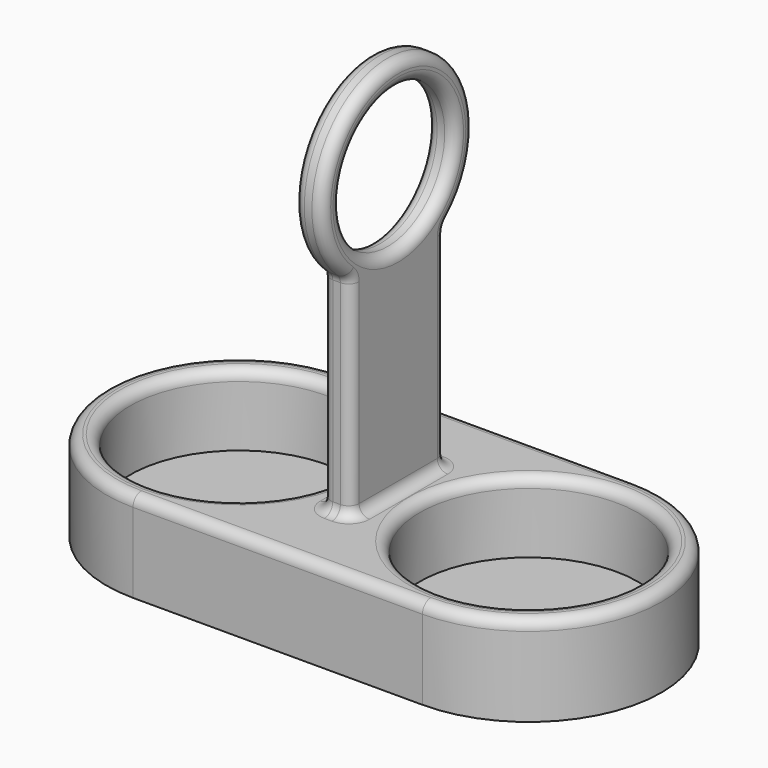
from build123d import *

# Parameters (mm, degrees)
PAD_DEPTH    = 4
SKETCH001_R  = 23
PAD001_DEPTH = 15
SKETCH002_W  = 6
SKETCH002_H  = 25
PAD002_DEPTH = 60
SKETCH003_R  = 20
PAD003_DEPTH = 6
SKETCH004_R  = 15
POCKET_DEPTH = 6
FILLET_R     = 2.2


with BuildPart() as part:
    # Sketch → Pad (new body)
    with BuildSketch(Plane.XY):
        with BuildLine():
            Line((0, 28), (61, 28))
            ThreePointArc((61, -28), (89, 0), (61, 28))
            Line((0, -28), (61, -28))
            ThreePointArc((0, 28), (-28, 0), (0, -28))
        make_face()
    extrude(amount=PAD_DEPTH)

    # Sketch001 → Pad001 (new body)
    with BuildSketch(Plane.XY.offset(4)):
        with BuildLine():
            Line((0, 28), (61, 28))
            ThreePointArc((61, -28), (89, 0), (61, 28))
            Line((0, -28), (61, -28))
            ThreePointArc((0, 28), (-28, 0), (0, -28))
        make_face()
        Circle(SKETCH001_R, mode=Mode.SUBTRACT)
        with Locations((61, 0)):
            Circle(SKETCH001_R, mode=Mode.SUBTRACT)
    extrude(amount=PAD001_DEPTH)

    # Sketch002 → Pad002 (new body)
    with BuildSketch(Plane.XY.offset(19)):
        with Locations((30.5, 0)):
            Rectangle(SKETCH002_W, SKETCH002_H)
    extrude(amount=PAD002_DEPTH)

    # Sketch003 → Pad003 (new body)
    with BuildSketch(Plane(origin=(27.5, 0, 0), x_dir=(0, -1, 0), z_dir=(-1, 0, 0))):
        with Locations((0, 79)):
            Circle(SKETCH003_R)
    extrude(amount=-PAD003_DEPTH)

    # Sketch004 → Pocket (cut)
    with BuildSketch(Plane(origin=(27.5, 0, 0), x_dir=(0, -1, 0), z_dir=(-1, 0, 0))):
        with Locations((0, 79)):
            Circle(SKETCH004_R)
    extrude(amount=-POCKET_DEPTH, mode=Mode.SUBTRACT)

    # Fillet
    fillet_edges = [part.edges().sort_by_distance(p)[0] for p in [
        (27.5, 0, 19),
        (27.5, 12.5, 41.193753),
        (27.5, 0, 59),
        (27.5, -12.5, 41.193753),
        (-28, 0, 19),
        (30.5, 28, 19),
        (30.5, -28, 19),
        (89, 0, 19),
        (-23, 0, 19),
        (33.5, 0, 19),
        (30.5, -12.5, 19),
        (30.5, 12.5, 19),
        (38, 0, 19),
        (33.5, -12.5, 41.193753),
        (33.5, 0, 59),
        (33.5, 12.5, 41.193753),
        (30.5, 12.5, 63.387505),
        (27.5, 8.660254, 97.027756),
        (33.5, 8.660254, 97.027756),
        (33.5, -12.5, 67.047972),
        (33.5, -14.361407, 74.669873),
        (33.5, 4.330127, 93.361407),
        (33.5, 12.5, 67.047972),
        (33.5, -18.027756, 70.339746),
        (27.5, 4.330127, 93.361407),
        (27.5, 0, 64),
        (27.5, -14.361407, 74.669873),
        (33.5, 0, 64),
        (27.5, -12.5, 67.047972),
        (27.5, 12.5, 67.047972),
        (27.5, -18.027756, 70.339746),
        (30.5, -12.5, 63.387505),
    ]]
    fillet(fillet_edges, radius=FILLET_R)


solid = part.part
